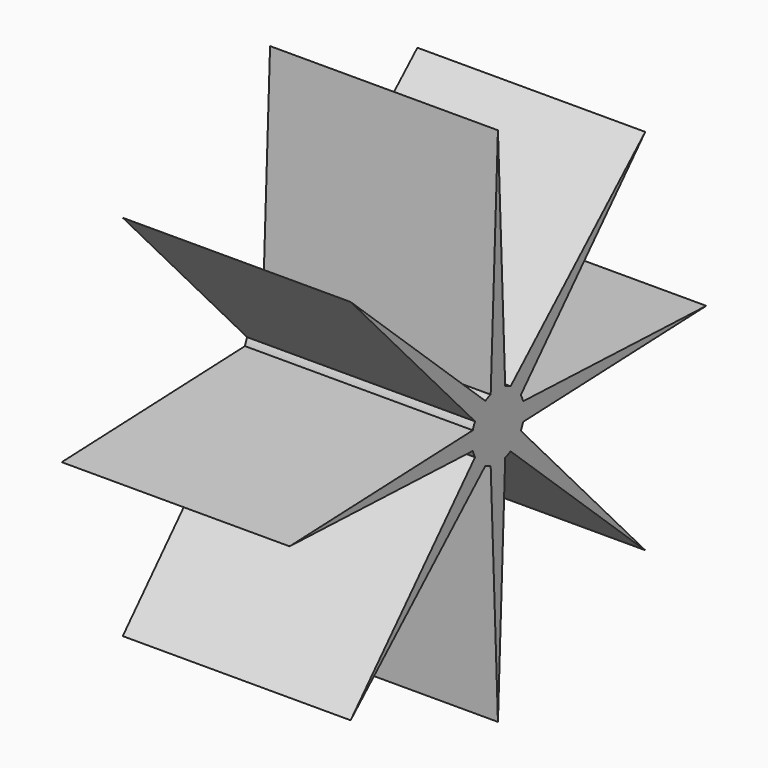
from build123d import *

# Parameters (mm, degrees)
F1_DEPTH = 44.45


with BuildPart() as f1:
    # F0 (on Right) → F1 (new body)
    with BuildSketch(Plane.YZ):
        with BuildLine():
            Line((0, 0), (6.3777308804, 0))
            ThreePointArc((6.3777308804, 0), (6.3148103285, 0.8936563646), (6.1272901789, 1.7696797019))
            Line((6.1272901789, 1.7696797019), (4.4347789139, 1.8367274105))
            Line((4.4347789139, 1.8367274105), (1.9357257406, 1.9357257406))
            Line((1.9357257406, 1.9357257406), (0, 0))
        make_face()
        with BuildLine():
            Line((50.8, 0), (6.3777308804, 0))
            ThreePointArc((6.3777308804, 0), (6.3148103285, -0.8936563646), (6.1272901789, -1.7696797019))
            Line((6.1272901789, -1.7696797019), (50.8, 0))
        make_face()
        with BuildLine():
            ThreePointArc((6.1272901789, -1.7696797019), (6.3148103285, -0.8936563646), (6.3777308804, 0))
            Line((6.3777308804, 0), (0, 0))
            Line((0, 0), (1.9357257406, -1.9357257406))
            Line((1.9357257406, -1.9357257406), (4.4347789139, -1.8367274105))
            Line((4.4347789139, -1.8367274105), (6.1272901789, -1.7696797019))
        make_face()
        with BuildLine():
            ThreePointArc((6.1272901789, 1.7696797019), (6.3148103285, 0.8936563646), (6.3777308804, 0))
            Line((6.3777308804, 0), (50.8, 0))
            Line((50.8, 0), (6.1272901789, 1.7696797019))
        make_face()
        with BuildLine():
            Line((4.4347789139, 1.8367274105), (6.1272901789, 1.7696797019))
            ThreePointArc((6.1272901789, 1.7696797019), (5.8923261289, 2.4404802754), (5.5841804878, 3.0809705392))
            Line((5.5841804878, 3.0809705392), (4.4347789139, 1.8367274105))
        make_face()
        with BuildLine():
            ThreePointArc((5.5841804878, -3.0809705392), (5.8923261289, -2.4404802754), (6.1272901789, -1.7696797019))
            Line((6.1272901789, -1.7696797019), (4.4347789139, -1.8367274105))
            Line((4.4347789139, -1.8367274105), (5.5841804878, -3.0809705392))
        make_face()
        with BuildLine():
            Line((-1.9357257406, -1.9357257406), (0, 0))
            Line((0, 0), (-6.3777308804, 0))
            ThreePointArc((-6.3777308804, 0), (-6.3148103285, -0.8936563646), (-6.1272901789, -1.7696797019))
            Line((-6.1272901789, -1.7696797019), (-4.4347789139, -1.8367274105))
            Line((-4.4347789139, -1.8367274105), (-1.9357257406, -1.9357257406))
        make_face()
        with BuildLine():
            Line((-6.3777308804, 0), (0, 0))
            Line((0, 0), (-1.9357257406, 1.9357257406))
            Line((-1.9357257406, 1.9357257406), (-4.4347789139, 1.8367274105))
            Line((-4.4347789139, 1.8367274105), (-6.1272901789, 1.7696797019))
            ThreePointArc((-6.1272901789, 1.7696797019), (-6.3148103285, 0.8936563646), (-6.3777308804, 0))
        make_face()
        with BuildLine():
            Line((-1.9357257406, 1.9357257406), (0, 0))
            Line((0, 0), (0, 6.3777308804))
            ThreePointArc((0, 6.3777308804), (-0.8936563646, 6.3148103285), (-1.7696797019, 6.1272901789))
            Line((-1.7696797019, 6.1272901789), (-1.8367274105, 4.4347789139))
            Line((-1.8367274105, 4.4347789139), (-1.9357257406, 1.9357257406))
        make_face()
        with BuildLine():
            Line((0, 6.3777308804), (0, 0))
            Line((0, 0), (1.9357257406, 1.9357257406))
            Line((1.9357257406, 1.9357257406), (1.8367274105, 4.4347789139))
            Line((1.8367274105, 4.4347789139), (1.7696797019, 6.1272901789))
            ThreePointArc((1.7696797019, 6.1272901789), (0.8936563646, 6.3148103285), (0, 6.3777308804))
        make_face()
        with BuildLine():
            Line((1.9357257406, -1.9357257406), (0, 0))
            Line((0, 0), (0, -6.3777308804))
            ThreePointArc((0, -6.3777308804), (0.8936563646, -6.3148103285), (1.7696797019, -6.1272901789))
            Line((1.7696797019, -6.1272901789), (1.8367274105, -4.4347789139))
            Line((1.8367274105, -4.4347789139), (1.9357257406, -1.9357257406))
        make_face()
        with BuildLine():
            Line((0, -6.3777308804), (0, 0))
            Line((0, 0), (-1.9357257406, -1.9357257406))
            Line((-1.9357257406, -1.9357257406), (-1.8367274105, -4.4347789139))
            Line((-1.8367274105, -4.4347789139), (-1.7696797019, -6.1272901789))
            ThreePointArc((-1.7696797019, -6.1272901789), (-0.8936563646, -6.3148103285), (0, -6.3777308804))
        make_face()
        with BuildLine():
            Line((4.4347789139, 1.8367274105), (5.5841804878, 3.0809705392))
            ThreePointArc((5.5841804878, 3.0809705392), (5.0972673606, 3.8331862252), (4.5097367541, 4.5097367541))
            Line((4.5097367541, 4.5097367541), (1.9357257406, 1.9357257406))
            Line((1.9357257406, 1.9357257406), (4.4347789139, 1.8367274105))
        make_face()
        with BuildLine():
            ThreePointArc((4.5097367541, 4.5097367541), (5.0972673606, 3.8331862252), (5.5841804878, 3.0809705392))
            Line((5.5841804878, 3.0809705392), (35.9210244843, 35.9210244843))
            Line((35.9210244843, 35.9210244843), (4.5097367541, 4.5097367541))
        make_face()
        with BuildLine():
            Line((35.9210244843, -35.9210244843), (5.5841804878, -3.0809705392))
            ThreePointArc((5.5841804878, -3.0809705392), (5.0972673606, -3.8331862252), (4.5097367541, -4.5097367541))
            Line((4.5097367541, -4.5097367541), (35.9210244843, -35.9210244843))
        make_face()
        with BuildLine():
            ThreePointArc((4.5097367541, -4.5097367541), (5.0972673606, -3.8331862252), (5.5841804878, -3.0809705392))
            Line((5.5841804878, -3.0809705392), (4.4347789139, -1.8367274105))
            Line((4.4347789139, -1.8367274105), (1.9357257406, -1.9357257406))
            Line((1.9357257406, -1.9357257406), (4.5097367541, -4.5097367541))
        make_face()
        with BuildLine():
            Line((-50.8, 0), (-6.3777308804, 0))
            ThreePointArc((-6.3777308804, 0), (-6.3148103285, 0.8936563646), (-6.1272901789, 1.7696797019))
            Line((-6.1272901789, 1.7696797019), (-50.8, 0))
        make_face()
        with BuildLine():
            ThreePointArc((-6.1272901789, -1.7696797019), (-6.3148103285, -0.8936563646), (-6.3777308804, 0))
            Line((-6.3777308804, 0), (-50.8, 0))
            Line((-50.8, 0), (-6.1272901789, -1.7696797019))
        make_face()
        with BuildLine():
            Line((-4.4347789139, 1.8367274105), (-1.9357257406, 1.9357257406))
            Line((-1.9357257406, 1.9357257406), (-4.5097367541, 4.5097367541))
            ThreePointArc((-4.5097367541, 4.5097367541), (-5.0972673606, 3.8331862252), (-5.5841804878, 3.0809705392))
            Line((-5.5841804878, 3.0809705392), (-4.4347789139, 1.8367274105))
        make_face()
        with BuildLine():
            Line((-4.5097367541, 4.5097367541), (-1.9357257406, 1.9357257406))
            Line((-1.9357257406, 1.9357257406), (-1.8367274105, 4.4347789139))
            Line((-1.8367274105, 4.4347789139), (-3.0809705392, 5.5841804878))
            ThreePointArc((-3.0809705392, 5.5841804878), (-3.8331862252, 5.0972673606), (-4.5097367541, 4.5097367541))
        make_face()
        with BuildLine():
            Line((0, 50.8), (0, 6.3777308804))
            ThreePointArc((0, 6.3777308804), (0.8936563646, 6.3148103285), (1.7696797019, 6.1272901789))
            Line((1.7696797019, 6.1272901789), (0, 50.8))
        make_face()
        with BuildLine():
            ThreePointArc((-1.7696797019, 6.1272901789), (-0.8936563646, 6.3148103285), (0, 6.3777308804))
            Line((0, 6.3777308804), (0, 50.8))
            Line((0, 50.8), (-1.7696797019, 6.1272901789))
        make_face()
        with BuildLine():
            Line((1.8367274105, 4.4347789139), (1.9357257406, 1.9357257406))
            Line((1.9357257406, 1.9357257406), (4.5097367541, 4.5097367541))
            ThreePointArc((4.5097367541, 4.5097367541), (3.8331862252, 5.0972673606), (3.0809705392, 5.5841804878))
            Line((3.0809705392, 5.5841804878), (1.8367274105, 4.4347789139))
        make_face()
        with BuildLine():
            Line((4.5097367541, -4.5097367541), (1.9357257406, -1.9357257406))
            Line((1.9357257406, -1.9357257406), (1.8367274105, -4.4347789139))
            Line((1.8367274105, -4.4347789139), (3.0809705392, -5.5841804878))
            ThreePointArc((3.0809705392, -5.5841804878), (3.8331862252, -5.0972673606), (4.5097367541, -4.5097367541))
        make_face()
        with BuildLine():
            Line((0, -50.8), (0, -6.3777308804))
            ThreePointArc((0, -6.3777308804), (-0.8936563646, -6.3148103285), (-1.7696797019, -6.1272901789))
            Line((-1.7696797019, -6.1272901789), (0, -50.8))
        make_face()
        with BuildLine():
            ThreePointArc((1.7696797019, -6.1272901789), (0.8936563646, -6.3148103285), (0, -6.3777308804))
            Line((0, -6.3777308804), (0, -50.8))
            Line((0, -50.8), (1.7696797019, -6.1272901789))
        make_face()
        with BuildLine():
            Line((-1.8367274105, -4.4347789139), (-1.9357257406, -1.9357257406))
            Line((-1.9357257406, -1.9357257406), (-4.5097367541, -4.5097367541))
            ThreePointArc((-4.5097367541, -4.5097367541), (-3.8331862252, -5.0972673606), (-3.0809705392, -5.5841804878))
            Line((-3.0809705392, -5.5841804878), (-1.8367274105, -4.4347789139))
        make_face()
        with BuildLine():
            Line((-4.5097367541, -4.5097367541), (-1.9357257406, -1.9357257406))
            Line((-1.9357257406, -1.9357257406), (-4.4347789139, -1.8367274105))
            Line((-4.4347789139, -1.8367274105), (-5.5841804878, -3.0809705392))
            ThreePointArc((-5.5841804878, -3.0809705392), (-5.0972673606, -3.8331862252), (-4.5097367541, -4.5097367541))
        make_face()
        with BuildLine():
            ThreePointArc((3.0809705392, 5.5841804878), (3.8331862252, 5.0972673606), (4.5097367541, 4.5097367541))
            Line((4.5097367541, 4.5097367541), (35.9210244843, 35.9210244843))
            Line((35.9210244843, 35.9210244843), (3.0809705392, 5.5841804878))
        make_face()
        with BuildLine():
            Line((35.9210244843, -35.9210244843), (4.5097367541, -4.5097367541))
            ThreePointArc((4.5097367541, -4.5097367541), (3.8331862252, -5.0972673606), (3.0809705392, -5.5841804878))
            Line((3.0809705392, -5.5841804878), (35.9210244843, -35.9210244843))
        make_face()
        with BuildLine():
            ThreePointArc((-5.5841804878, 3.0809705392), (-5.8923261289, 2.4404802754), (-6.1272901789, 1.7696797019))
            Line((-6.1272901789, 1.7696797019), (-4.4347789139, 1.8367274105))
            Line((-4.4347789139, 1.8367274105), (-5.5841804878, 3.0809705392))
        make_face()
        with BuildLine():
            Line((-4.4347789139, -1.8367274105), (-6.1272901789, -1.7696797019))
            ThreePointArc((-6.1272901789, -1.7696797019), (-5.8923261289, -2.4404802754), (-5.5841804878, -3.0809705392))
            Line((-5.5841804878, -3.0809705392), (-4.4347789139, -1.8367274105))
        make_face()
        with BuildLine():
            Line((-35.9210244843, 35.9210244843), (-4.5097367541, 4.5097367541))
            ThreePointArc((-4.5097367541, 4.5097367541), (-3.8331862252, 5.0972673606), (-3.0809705392, 5.5841804878))
            Line((-3.0809705392, 5.5841804878), (-35.9210244843, 35.9210244843))
        make_face()
        with BuildLine():
            ThreePointArc((-5.5841804878, 3.0809705392), (-5.0972673606, 3.8331862252), (-4.5097367541, 4.5097367541))
            Line((-4.5097367541, 4.5097367541), (-35.9210244843, 35.9210244843))
            Line((-35.9210244843, 35.9210244843), (-5.5841804878, 3.0809705392))
        make_face()
        with BuildLine():
            Line((-3.0809705392, 5.5841804878), (-1.8367274105, 4.4347789139))
            Line((-1.8367274105, 4.4347789139), (-1.7696797019, 6.1272901789))
            ThreePointArc((-1.7696797019, 6.1272901789), (-2.4404802754, 5.8923261289), (-3.0809705392, 5.5841804878))
        make_face()
        with BuildLine():
            ThreePointArc((3.0809705392, 5.5841804878), (2.4404802754, 5.8923261289), (1.7696797019, 6.1272901789))
            Line((1.7696797019, 6.1272901789), (1.8367274105, 4.4347789139))
            Line((1.8367274105, 4.4347789139), (3.0809705392, 5.5841804878))
        make_face()
        with BuildLine():
            Line((3.0809705392, -5.5841804878), (1.8367274105, -4.4347789139))
            Line((1.8367274105, -4.4347789139), (1.7696797019, -6.1272901789))
            ThreePointArc((1.7696797019, -6.1272901789), (2.4404802754, -5.8923261289), (3.0809705392, -5.5841804878))
        make_face()
        with BuildLine():
            ThreePointArc((-3.0809705392, -5.5841804878), (-2.4404802754, -5.8923261289), (-1.7696797019, -6.1272901789))
            Line((-1.7696797019, -6.1272901789), (-1.8367274105, -4.4347789139))
            Line((-1.8367274105, -4.4347789139), (-3.0809705392, -5.5841804878))
        make_face()
        with BuildLine():
            Line((-35.9210244843, -35.9210244843), (-4.5097367541, -4.5097367541))
            ThreePointArc((-4.5097367541, -4.5097367541), (-5.0972673606, -3.8331862252), (-5.5841804878, -3.0809705392))
            Line((-5.5841804878, -3.0809705392), (-35.9210244843, -35.9210244843))
        make_face()
        with BuildLine():
            ThreePointArc((-3.0809705392, -5.5841804878), (-3.8331862252, -5.0972673606), (-4.5097367541, -4.5097367541))
            Line((-4.5097367541, -4.5097367541), (-35.9210244843, -35.9210244843))
            Line((-35.9210244843, -35.9210244843), (-3.0809705392, -5.5841804878))
        make_face()
    extrude(amount=F1_DEPTH)


solid = f1.part
